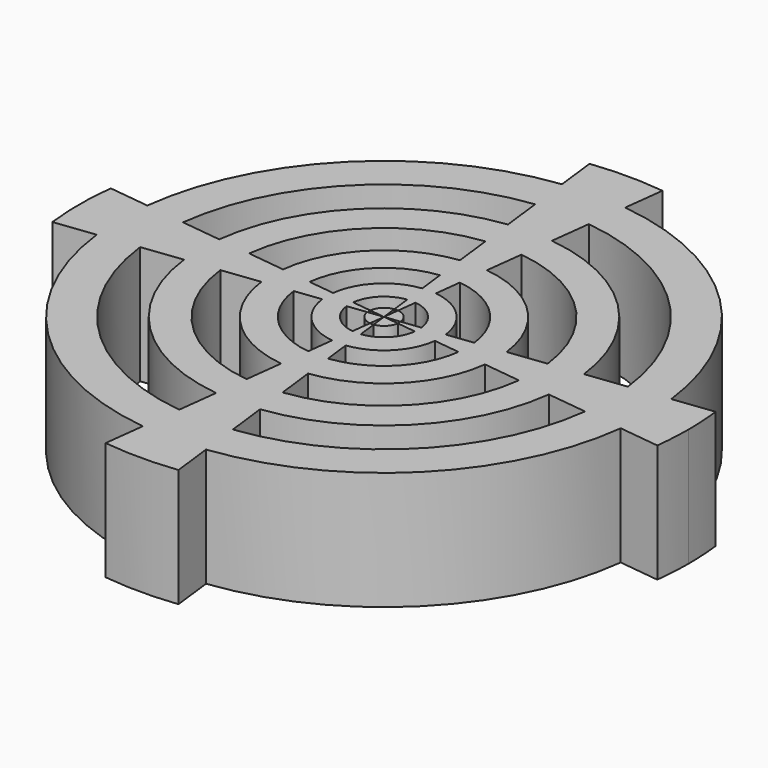
from build123d import *

# Parameters (mm, degrees)
F1_DEPTH = 25.4


with BuildPart() as f1:
    # F0 (on Top) → F1 (new body)
    with BuildSketch(Plane.XY):
        with BuildLine():
            ThreePointArc((0.3949463814, -3.2755851114), (2.3329638302, -2.3329638302), (3.2755851114, -0.3949463814))
            Line((3.2755851114, -0.3949463814), (0, 0))
            Line((0, 0), (0.3949463814, -3.2755851114))
        make_face()
    extrude(amount=F1_DEPTH)


with BuildPart() as f1b:
    # F0 (on Top) → F1, piece 2 (new body)
    with BuildSketch(Plane.XY):
        with BuildLine():
            Line((0, 0), (3.2755851114, 0.3949463814))
            ThreePointArc((3.2755851114, 0.3949463814), (2.3329638302, 2.3329638302), (0.3949463814, 3.2755851114))
            Line((0.3949463814, 3.2755851114), (0, 0))
        make_face()
    extrude(amount=F1_DEPTH)


with BuildPart() as f1c:
    # F0 (on Top) → F1, piece 3 (new body)
    with BuildSketch(Plane.XY):
        with BuildLine():
            Line((-3.2755851114, 0.3949463814), (0, 0))
            Line((0, 0), (-0.3949463814, 3.2755851114))
            ThreePointArc((-0.3949463814, 3.2755851114), (-2.3329638302, 2.3329638302), (-3.2755851114, 0.3949463814))
        make_face()
    extrude(amount=F1_DEPTH)


with BuildPart() as f1d:
    # F0 (on Top) → F1, piece 4 (new body)
    with BuildSketch(Plane.XY):
        with BuildLine():
            Line((-0.3949463814, -3.2755851114), (0, 0))
            Line((0, 0), (-3.2755851114, -0.3949463814))
            ThreePointArc((-3.2755851114, -0.3949463814), (-2.3329638302, -2.3329638302), (-0.3949463814, -3.2755851114))
        make_face()
    extrude(amount=F1_DEPTH)


with BuildPart() as f1e:
    # F0 (on Top) → F1, piece 5 (new body)
    with BuildSketch(Plane.XY):
        with BuildLine():
            Line((-0.8854582133, 7.3437658304), (-1.4596083092, 12.1056210961))
            ThreePointArc((-1.4596083092, 12.1056210961), (-8.621963771, 8.621963771), (-12.1056210961, 1.4596083092))
            Line((-12.1056210961, 1.4596083092), (-7.3437658304, 0.8854582133))
            ThreePointArc((-7.3437658304, 0.8854582133), (-5.2304365411, 5.2304365411), (-0.8854582133, 7.3437658304))
        make_face()
        with BuildLine():
            Line((-2.1343025953, 17.7013643731), (-2.8976111776, 24.0320521462))
            ThreePointArc((-2.8976111776, 24.0320521462), (-17.1163033523, 17.1163033523), (-24.0320521462, 2.8976111776))
            Line((-24.0320521462, 2.8976111776), (-17.7013643731, 2.1343025953))
            ThreePointArc((-17.7013643731, 2.1343025953), (-12.6074094928, 12.6074094928), (-2.1343025953, 17.7013643731))
        make_face()
        with BuildLine():
            Line((-3.8687748548, 32.086637356), (-4.7276929236, 39.2102859597))
            ThreePointArc((-4.7276929236, 39.2102859597), (-27.9266683067, 27.9266683067), (-39.2102859597, 4.7276929236))
            Line((-39.2102859597, 4.7276929236), (-32.086637356, 3.8687748548))
            ThreePointArc((-32.086637356, 3.8687748548), (-22.8530054445, 22.8530054445), (-3.8687748548, 32.086637356))
        make_face()
        with BuildLine():
            Line((-5.7655175254, 47.8177399692), (-6.7907928644, 56.3211135761))
            ThreePointArc((-6.7907928644, 56.3211135761), (-40.1134809146, 40.1134809146), (-56.3211135761, 6.7907928644))
            Line((-56.3211135761, 6.7907928644), (-47.8177399692, 5.7655175254))
            ThreePointArc((-47.8177399693, 5.7655175254), (-34.0571391055, 34.0571391055), (-5.7655175254, 47.8177399693))
        make_face()
        with BuildLine():
            Line((47.8177399692, 5.7655175254), (56.3211135761, 6.7907928644))
            ThreePointArc((56.3211135761, 6.7907928644), (40.1134809146, 40.1134809146), (6.7907928644, 56.3211135761))
            Line((6.7907928644, 56.3211135761), (5.7655175254, 47.8177399692))
            ThreePointArc((5.7655175254, 47.8177399693), (34.0571391055, 34.0571391055), (47.8177399692, 5.7655175254))
        make_face()
        with BuildLine():
            ThreePointArc((6.7907928644, -56.3211135761), (40.1134809146, -40.1134809146), (56.3211135761, -6.7907928644))
            Line((56.3211135761, -6.7907928644), (47.8177399692, -5.7655175254))
            ThreePointArc((47.8177399692, -5.7655175254), (34.0571391055, -34.0571391055), (5.7655175254, -47.8177399693))
            Line((5.7655175254, -47.8177399692), (6.7907928644, -56.3211135761))
        make_face()
        with BuildLine():
            ThreePointArc((48.1640680186, 0), (48.0774080441, 2.8879549621), (47.8177399692, 5.7655175254))
            Line((47.8177399692, 5.7655175254), (39.2102859597, 4.7276929236))
            ThreePointArc((39.2102859597, 4.7276929236), (39.4232123648, 2.368107317), (39.4942730712, 0))
            ThreePointArc((39.4942730712, 0), (39.4232123648, -2.368107317), (39.2102859597, -4.7276929236))
            Line((39.2102859597, -4.7276929236), (47.8177399692, -5.7655175254))
            ThreePointArc((47.8177399692, -5.7655175254), (48.0774080441, -2.8879549621), (48.1640680186, 0))
        make_face()
        with BuildLine():
            ThreePointArc((65.0156007019, -7.8391112903), (65.3686595432, -3.9266206806), (65.4864871592, 0))
            ThreePointArc((65.4864871592, 0), (65.3686595432, 3.9266206806), (65.0156007019, 7.8391112903))
            Line((65.0156007019, 7.8391112903), (56.3211135761, 6.7907928644))
            ThreePointArc((56.3211135761, 6.7907928644), (56.6269581255, 3.4015166658), (56.7290287435, 0))
            ThreePointArc((56.7290287435, 0), (56.6269581255, -3.4015166658), (56.3211135761, -6.7907928644))
            Line((56.3211135761, -6.7907928644), (65.0156007019, -7.8391112903))
        make_face()
        with BuildLine():
            ThreePointArc((56.7290287435, 0), (56.6269581255, 3.4015166658), (56.3211135761, 6.7907928644))
            Line((56.3211135761, 6.7907928644), (47.8177399692, 5.7655175254))
            ThreePointArc((47.8177399692, 5.7655175254), (48.0774080441, 2.8879549621), (48.1640680186, 0))
            ThreePointArc((48.1640680186, 0), (48.0774080441, -2.8879549621), (47.8177399692, -5.7655175254))
            Line((47.8177399692, -5.7655175254), (56.3211135761, -6.7907928644))
            ThreePointArc((56.3211135761, -6.7907928644), (56.6269581255, -3.4015166658), (56.7290287435, 0))
        make_face()
        with BuildLine():
            ThreePointArc((39.4942730712, 0), (39.4232123648, 2.368107317), (39.2102859597, 4.7276929236))
            Line((39.2102859597, 4.7276929236), (32.086637356, 3.8687748548))
            ThreePointArc((32.086637356, 3.8687748548), (32.2608797054, 1.9378741787), (32.3190302406, 0))
            ThreePointArc((32.3190302406, 0), (32.2608797054, -1.9378741787), (32.086637356, -3.8687748548))
            Line((32.086637356, -3.8687748548), (39.2102859597, -4.7276929236))
            ThreePointArc((39.2102859597, -4.7276929236), (39.4232123648, -2.368107317), (39.4942730712, 0))
        make_face()
        with BuildLine():
            ThreePointArc((32.3190302406, 0), (32.2608797054, 1.9378741787), (32.086637356, 3.8687748548))
            Line((32.086637356, 3.8687748548), (24.0320521462, 2.8976111776))
            ThreePointArc((24.0320521462, 2.8976111776), (24.1625551085, 1.4514170743), (24.2061083385, 0))
            ThreePointArc((24.2061083385, 0), (24.1625551085, -1.4514170743), (24.0320521462, -2.8976111776))
            Line((24.0320521462, -2.8976111776), (32.086637356, -3.8687748548))
            ThreePointArc((32.086637356, -3.8687748548), (32.2608797054, -1.9378741787), (32.3190302406, 0))
        make_face()
        with BuildLine():
            ThreePointArc((24.2061083385, 0), (24.1625551085, 1.4514170743), (24.0320521462, 2.8976111776))
            Line((24.0320521462, 2.8976111776), (17.7013643731, 2.1343025953))
            ThreePointArc((17.7013643731, 2.1343025953), (17.7974893512, 1.0690748478), (17.8295694911, 0))
            ThreePointArc((17.8295694911, 0), (17.7974893512, -1.0690748478), (17.7013643731, -2.1343025953))
            Line((17.7013643731, -2.1343025953), (24.0320521462, -2.8976111776))
            ThreePointArc((24.0320521462, -2.8976111776), (24.1625551085, -1.4514170743), (24.2061083385, 0))
        make_face()
        with BuildLine():
            ThreePointArc((17.8295694911, 0), (17.7974893512, 1.0690748478), (17.7013643731, 2.1343025953))
            Line((17.7013643731, 2.1343025953), (12.1056210961, 1.4596083092))
            ThreePointArc((12.1056210961, 1.4596083092), (12.1713591115, 0.7311196334), (12.1932980993, 0))
            ThreePointArc((12.1932980993, 0), (12.1713591115, -0.7311196334), (12.1056210961, -1.4596083092))
            Line((12.1056210961, -1.4596083092), (17.7013643731, -2.1343025953))
            ThreePointArc((17.7013643731, -2.1343025953), (17.7974893512, -1.0690748478), (17.8295694911, 0))
        make_face()
        with BuildLine():
            ThreePointArc((12.1932980993, 0), (12.1713591115, 0.7311196334), (12.1056210961, 1.4596083092))
            Line((12.1056210961, 1.4596083092), (7.3437658304, 0.8854582133))
            ThreePointArc((7.3437658304, 0.8854582133), (7.3836452044, 0.44352713), (7.3969542935, 0))
            ThreePointArc((7.3969542935, 0), (7.3836452044, -0.44352713), (7.3437658304, -0.8854582133))
            Line((7.3437658304, -0.8854582133), (12.1056210961, -1.4596083092))
            ThreePointArc((12.1056210961, -1.4596083092), (12.1713591115, -0.7311196334), (12.1932980993, 0))
        make_face()
        with BuildLine():
            ThreePointArc((7.3969542935, 0), (7.3836452044, 0.44352713), (7.3437658304, 0.8854582133))
            Line((7.3437658304, 0.8854582133), (3.2755851114, 0.3949463814))
            ThreePointArc((3.2755851114, 0.3949463814), (3.2933727542, 0.1978291379), (3.2993090892, 0))
            ThreePointArc((3.2993090892, 0), (3.2933727542, -0.1978291379), (3.2755851114, -0.3949463814))
            Line((3.2755851114, -0.3949463814), (7.3437658304, -0.8854582133))
            ThreePointArc((7.3437658304, -0.8854582133), (7.3836452044, -0.44352713), (7.3969542935, 0))
        make_face()
        with BuildLine():
            ThreePointArc((-12.1056210961, -1.4596083092), (-8.621963771, -8.621963771), (-1.4596083092, -12.1056210961))
            Line((-1.4596083092, -12.1056210961), (-0.8854582133, -7.3437658304))
            ThreePointArc((-0.8854582133, -7.3437658304), (-5.2304365411, -5.2304365411), (-7.3437658304, -0.8854582133))
            Line((-7.3437658304, -0.8854582133), (-12.1056210961, -1.4596083092))
        make_face()
        with BuildLine():
            ThreePointArc((1.4596083092, -12.1056210961), (8.621963771, -8.621963771), (12.1056210961, -1.4596083092))
            Line((12.1056210961, -1.4596083092), (7.3437658304, -0.8854582133))
            ThreePointArc((7.3437658304, -0.8854582133), (5.2304365411, -5.2304365411), (0.8854582133, -7.3437658304))
            Line((0.8854582133, -7.3437658304), (1.4596083092, -12.1056210961))
        make_face()
        with BuildLine():
            Line((7.3437658304, 0.8854582133), (12.1056210961, 1.4596083092))
            ThreePointArc((12.1056210961, 1.4596083092), (8.621963771, 8.621963771), (1.4596083092, 12.1056210961))
            Line((1.4596083092, 12.1056210961), (0.8854582133, 7.3437658304))
            ThreePointArc((0.8854582133, 7.3437658304), (5.2304365411, 5.2304365411), (7.3437658304, 0.8854582133))
        make_face()
        with BuildLine():
            Line((0.8854582133, 7.3437658304), (1.4596083092, 12.1056210961))
            ThreePointArc((1.4596083092, 12.1056210961), (0, 12.1932980993), (-1.4596083092, 12.1056210961))
            Line((-1.4596083092, 12.1056210961), (-0.8854582133, 7.3437658304))
            ThreePointArc((-0.8854582133, 7.3437658304), (0, 7.3969542935), (0.8854582133, 7.3437658304))
        make_face()
        with BuildLine():
            Line((-7.3437658304, 0.8854582133), (-12.1056210961, 1.4596083092))
            ThreePointArc((-12.1056210961, 1.4596083092), (-12.1932980993, 0), (-12.1056210961, -1.4596083092))
            Line((-12.1056210961, -1.4596083092), (-7.3437658304, -0.8854582133))
            ThreePointArc((-7.3437658304, -0.8854582133), (-7.3969542935, 0), (-7.3437658304, 0.8854582133))
        make_face()
        with BuildLine():
            ThreePointArc((-1.4596083092, -12.1056210961), (0, -12.1932980993), (1.4596083092, -12.1056210961))
            Line((1.4596083092, -12.1056210961), (0.8854582133, -7.3437658304))
            ThreePointArc((0.8854582133, -7.3437658304), (0, -7.3969542935), (-0.8854582133, -7.3437658304))
            Line((-0.8854582133, -7.3437658304), (-1.4596083092, -12.1056210961))
        make_face()
        with BuildLine():
            ThreePointArc((2.8976111776, -24.0320521462), (17.1163033523, -17.1163033523), (24.0320521462, -2.8976111776))
            Line((24.0320521462, -2.8976111776), (17.7013643731, -2.1343025953))
            ThreePointArc((17.7013643731, -2.1343025953), (12.6074094928, -12.6074094928), (2.1343025953, -17.7013643731))
            Line((2.1343025953, -17.7013643731), (2.8976111776, -24.0320521462))
        make_face()
        with BuildLine():
            Line((17.7013643731, 2.1343025953), (24.0320521462, 2.8976111776))
            ThreePointArc((24.0320521462, 2.8976111776), (17.1163033523, 17.1163033523), (2.8976111776, 24.0320521462))
            Line((2.8976111776, 24.0320521462), (2.1343025953, 17.7013643731))
            ThreePointArc((2.1343025953, 17.7013643731), (12.6074094928, 12.6074094928), (17.7013643731, 2.1343025953))
        make_face()
        with BuildLine():
            Line((2.1343025953, 17.7013643731), (2.8976111776, 24.0320521462))
            ThreePointArc((2.8976111776, 24.0320521462), (0, 24.2061083385), (-2.8976111776, 24.0320521462))
            Line((-2.8976111776, 24.0320521462), (-2.1343025953, 17.7013643731))
            ThreePointArc((-2.1343025953, 17.7013643731), (0, 17.8295694911), (2.1343025953, 17.7013643731))
        make_face()
        with BuildLine():
            Line((-17.7013643731, 2.1343025953), (-24.0320521462, 2.8976111776))
            ThreePointArc((-24.0320521462, 2.8976111776), (-24.2061083385, 0), (-24.0320521462, -2.8976111776))
            Line((-24.0320521462, -2.8976111776), (-17.7013643731, -2.1343025953))
            ThreePointArc((-17.7013643731, -2.1343025953), (-17.8295694911, 0), (-17.7013643731, 2.1343025953))
        make_face()
        with BuildLine():
            ThreePointArc((-24.0320521462, -2.8976111776), (-17.1163033523, -17.1163033523), (-2.8976111776, -24.0320521462))
            Line((-2.8976111776, -24.0320521462), (-2.1343025953, -17.7013643731))
            ThreePointArc((-2.1343025953, -17.7013643731), (-12.6074094928, -12.6074094928), (-17.7013643731, -2.1343025953))
            Line((-17.7013643731, -2.1343025953), (-24.0320521462, -2.8976111776))
        make_face()
        with BuildLine():
            Line((-32.086637356, 3.8687748548), (-39.2102859597, 4.7276929236))
            ThreePointArc((-39.2102859597, 4.7276929236), (-39.4942730712, 0), (-39.2102859597, -4.7276929236))
            Line((-39.2102859597, -4.7276929236), (-32.086637356, -3.8687748548))
            ThreePointArc((-32.086637356, -3.8687748548), (-32.3190302406, 0), (-32.086637356, 3.8687748548))
        make_face()
        with BuildLine():
            ThreePointArc((-39.2102859597, -4.7276929236), (-27.9266683067, -27.9266683067), (-4.7276929236, -39.2102859597))
            Line((-4.7276929236, -39.2102859597), (-3.8687748548, -32.086637356))
            ThreePointArc((-3.8687748548, -32.086637356), (-22.8530054445, -22.8530054445), (-32.086637356, -3.8687748548))
            Line((-32.086637356, -3.8687748548), (-39.2102859597, -4.7276929236))
        make_face()
        with BuildLine():
            ThreePointArc((4.7276929236, -39.2102859597), (27.9266683067, -27.9266683067), (39.2102859597, -4.7276929236))
            Line((39.2102859597, -4.7276929236), (32.086637356, -3.8687748548))
            ThreePointArc((32.086637356, -3.8687748548), (22.8530054445, -22.8530054445), (3.8687748548, -32.086637356))
            Line((3.8687748548, -32.086637356), (4.7276929236, -39.2102859597))
        make_face()
        with BuildLine():
            ThreePointArc((-4.7276929236, -39.2102859597), (0, -39.4942730712), (4.7276929236, -39.2102859597))
            Line((4.7276929236, -39.2102859597), (3.8687748548, -32.086637356))
            ThreePointArc((3.8687748548, -32.086637356), (0, -32.3190302406), (-3.8687748548, -32.086637356))
            Line((-3.8687748548, -32.086637356), (-4.7276929236, -39.2102859597))
        make_face()
        with BuildLine():
            Line((32.086637356, 3.8687748548), (39.2102859597, 4.7276929236))
            ThreePointArc((39.2102859597, 4.7276929236), (27.9266683067, 27.9266683067), (4.7276929236, 39.2102859597))
            Line((4.7276929236, 39.2102859597), (3.8687748548, 32.086637356))
            ThreePointArc((3.8687748548, 32.086637356), (22.8530054445, 22.8530054445), (32.086637356, 3.8687748548))
        make_face()
        with BuildLine():
            Line((5.7655175254, 47.8177399692), (6.7907928644, 56.3211135761))
            ThreePointArc((6.7907928644, 56.3211135761), (0, 56.7290287435), (-6.7907928644, 56.3211135761))
            Line((-6.7907928644, 56.3211135761), (-5.7655175254, 47.8177399692))
            ThreePointArc((-5.7655175254, 47.8177399693), (0, 48.1640680186), (5.7655175254, 47.8177399693))
        make_face()
        with BuildLine():
            Line((-47.8177399692, 5.7655175254), (-56.3211135761, 6.7907928644))
            ThreePointArc((-56.3211135761, 6.7907928644), (-56.7290287435, 0), (-56.3211135761, -6.7907928644))
            Line((-56.3211135761, -6.7907928644), (-47.8177399692, -5.7655175254))
            ThreePointArc((-47.8177399693, -5.7655175254), (-48.1640680186, 0), (-47.8177399693, 5.7655175254))
        make_face()
        with BuildLine():
            ThreePointArc((-56.3211135761, -6.7907928644), (-40.1134809146, -40.1134809146), (-6.7907928644, -56.3211135761))
            Line((-6.7907928644, -56.3211135761), (-5.7655175254, -47.8177399692))
            ThreePointArc((-5.7655175254, -47.8177399693), (-34.0571391055, -34.0571391055), (-47.8177399693, -5.7655175254))
            Line((-47.8177399692, -5.7655175254), (-56.3211135761, -6.7907928644))
        make_face()
        with BuildLine():
            ThreePointArc((-6.7907928644, -56.3211135761), (0, -56.7290287435), (6.7907928644, -56.3211135761))
            Line((6.7907928644, -56.3211135761), (5.7655175254, -47.8177399692))
            ThreePointArc((5.7655175254, -47.8177399693), (0, -48.1640680186), (-5.7655175254, -47.8177399693))
            Line((-5.7655175254, -47.8177399692), (-6.7907928644, -56.3211135761))
        make_face()
        with BuildLine():
            ThreePointArc((-5.7655175254, -47.8177399693), (0, -48.1640680186), (5.7655175254, -47.8177399693))
            Line((5.7655175254, -47.8177399692), (4.7276929236, -39.2102859597))
            ThreePointArc((4.7276929236, -39.2102859597), (0, -39.4942730712), (-4.7276929236, -39.2102859597))
            Line((-4.7276929236, -39.2102859597), (-5.7655175254, -47.8177399692))
        make_face()
        with BuildLine():
            ThreePointArc((-7.8391112903, -65.0156007019), (0, -65.4864871592), (7.8391112903, -65.0156007019))
            Line((7.8391112903, -65.0156007019), (6.7907928644, -56.3211135761))
            ThreePointArc((6.7907928644, -56.3211135761), (0, -56.7290287435), (-6.7907928644, -56.3211135761))
            Line((-6.7907928644, -56.3211135761), (-7.8391112903, -65.0156007019))
        make_face()
        with BuildLine():
            ThreePointArc((-3.8687748548, -32.086637356), (0, -32.3190302406), (3.8687748548, -32.086637356))
            Line((3.8687748548, -32.086637356), (2.8976111776, -24.0320521462))
            ThreePointArc((2.8976111776, -24.0320521462), (0, -24.2061083385), (-2.8976111776, -24.0320521462))
            Line((-2.8976111776, -24.0320521462), (-3.8687748548, -32.086637356))
        make_face()
        with BuildLine():
            ThreePointArc((-2.1343025953, -17.7013643731), (0, -17.8295694911), (2.1343025953, -17.7013643731))
            Line((2.1343025953, -17.7013643731), (1.4596083092, -12.1056210961))
            ThreePointArc((1.4596083092, -12.1056210961), (0, -12.1932980993), (-1.4596083092, -12.1056210961))
            Line((-1.4596083092, -12.1056210961), (-2.1343025953, -17.7013643731))
        make_face()
        with BuildLine():
            ThreePointArc((-2.8976111776, -24.0320521462), (0, -24.2061083385), (2.8976111776, -24.0320521462))
            Line((2.8976111776, -24.0320521462), (2.1343025953, -17.7013643731))
            ThreePointArc((2.1343025953, -17.7013643731), (0, -17.8295694911), (-2.1343025953, -17.7013643731))
            Line((-2.1343025953, -17.7013643731), (-2.8976111776, -24.0320521462))
        make_face()
        with BuildLine():
            Line((-12.1056210961, 1.4596083092), (-17.7013643731, 2.1343025953))
            ThreePointArc((-17.7013643731, 2.1343025953), (-17.8295694911, 0), (-17.7013643731, -2.1343025953))
            Line((-17.7013643731, -2.1343025953), (-12.1056210961, -1.4596083092))
            ThreePointArc((-12.1056210961, -1.4596083092), (-12.1932980993, 0), (-12.1056210961, 1.4596083092))
        make_face()
        with BuildLine():
            Line((-24.0320521462, 2.8976111776), (-32.086637356, 3.8687748548))
            ThreePointArc((-32.086637356, 3.8687748548), (-32.3190302406, 0), (-32.086637356, -3.8687748548))
            Line((-32.086637356, -3.8687748548), (-24.0320521462, -2.8976111776))
            ThreePointArc((-24.0320521462, -2.8976111776), (-24.2061083385, 0), (-24.0320521462, 2.8976111776))
        make_face()
        with BuildLine():
            Line((-39.2102859597, 4.7276929236), (-47.8177399692, 5.7655175254))
            ThreePointArc((-47.8177399693, 5.7655175254), (-48.1640680186, 0), (-47.8177399693, -5.7655175254))
            Line((-47.8177399692, -5.7655175254), (-39.2102859597, -4.7276929236))
            ThreePointArc((-39.2102859597, -4.7276929236), (-39.4942730712, 0), (-39.2102859597, 4.7276929236))
        make_face()
        with BuildLine():
            Line((-56.3211135761, 6.7907928644), (-65.0156007019, 7.8391112903))
            ThreePointArc((-65.0156007019, 7.8391112903), (-65.4864871592, 0), (-65.0156007019, -7.8391112903))
            Line((-65.0156007019, -7.8391112903), (-56.3211135761, -6.7907928644))
            ThreePointArc((-56.3211135761, -6.7907928644), (-56.7290287435, 0), (-56.3211135761, 6.7907928644))
        make_face()
        with BuildLine():
            Line((6.7907928644, 56.3211135761), (7.8391112903, 65.0156007019))
            ThreePointArc((7.8391112903, 65.0156007019), (0, 65.4864871592), (-7.8391112903, 65.0156007019))
            Line((-7.8391112903, 65.0156007019), (-6.7907928644, 56.3211135761))
            ThreePointArc((-6.7907928644, 56.3211135761), (0, 56.7290287435), (6.7907928644, 56.3211135761))
        make_face()
        with BuildLine():
            Line((4.7276929236, 39.2102859597), (5.7655175254, 47.8177399692))
            ThreePointArc((5.7655175254, 47.8177399693), (0, 48.1640680186), (-5.7655175254, 47.8177399693))
            Line((-5.7655175254, 47.8177399692), (-4.7276929236, 39.2102859597))
            ThreePointArc((-4.7276929236, 39.2102859597), (0, 39.4942730712), (4.7276929236, 39.2102859597))
        make_face()
        with BuildLine():
            Line((2.8976111776, 24.0320521462), (3.8687748548, 32.086637356))
            ThreePointArc((3.8687748548, 32.086637356), (0, 32.3190302406), (-3.8687748548, 32.086637356))
            Line((-3.8687748548, 32.086637356), (-2.8976111776, 24.0320521462))
            ThreePointArc((-2.8976111776, 24.0320521462), (0, 24.2061083385), (2.8976111776, 24.0320521462))
        make_face()
        with BuildLine():
            Line((1.4596083092, 12.1056210961), (2.1343025953, 17.7013643731))
            ThreePointArc((2.1343025953, 17.7013643731), (0, 17.8295694911), (-2.1343025953, 17.7013643731))
            Line((-2.1343025953, 17.7013643731), (-1.4596083092, 12.1056210961))
            ThreePointArc((-1.4596083092, 12.1056210961), (0, 12.1932980993), (1.4596083092, 12.1056210961))
        make_face()
        with BuildLine():
            Line((3.8687748548, 32.086637356), (4.7276929236, 39.2102859597))
            ThreePointArc((4.7276929236, 39.2102859597), (0, 39.4942730712), (-4.7276929236, 39.2102859597))
            Line((-4.7276929236, 39.2102859597), (-3.8687748548, 32.086637356))
            ThreePointArc((-3.8687748548, 32.086637356), (0, 32.3190302406), (3.8687748548, 32.086637356))
        make_face()
        with BuildLine():
            ThreePointArc((-0.8854582133, -7.3437658304), (0, -7.3969542935), (0.8854582133, -7.3437658304))
            Line((0.8854582133, -7.3437658304), (0.3949463814, -3.2755851114))
            ThreePointArc((0.3949463814, -3.2755851114), (0, -3.2993090892), (-0.3949463814, -3.2755851114))
            Line((-0.3949463814, -3.2755851114), (-0.8854582133, -7.3437658304))
        make_face()
        with BuildLine():
            Line((0.3949463814, 3.2755851114), (0.8854582133, 7.3437658304))
            ThreePointArc((0.8854582133, 7.3437658304), (0, 7.3969542935), (-0.8854582133, 7.3437658304))
            Line((-0.8854582133, 7.3437658304), (-0.3949463814, 3.2755851114))
            ThreePointArc((-0.3949463814, 3.2755851114), (0, 3.2993090892), (0.3949463814, 3.2755851114))
        make_face()
        with BuildLine():
            Line((-3.2755851114, 0.3949463814), (-7.3437658304, 0.8854582133))
            ThreePointArc((-7.3437658304, 0.8854582133), (-7.3969542935, 0), (-7.3437658304, -0.8854582133))
            Line((-7.3437658304, -0.8854582133), (-3.2755851114, -0.3949463814))
            ThreePointArc((-3.2755851114, -0.3949463814), (-3.2993090892, 0), (-3.2755851114, 0.3949463814))
        make_face()
    extrude(amount=F1_DEPTH)


solid = Compound([f1.part, f1b.part, f1c.part, f1d.part, f1e.part])
